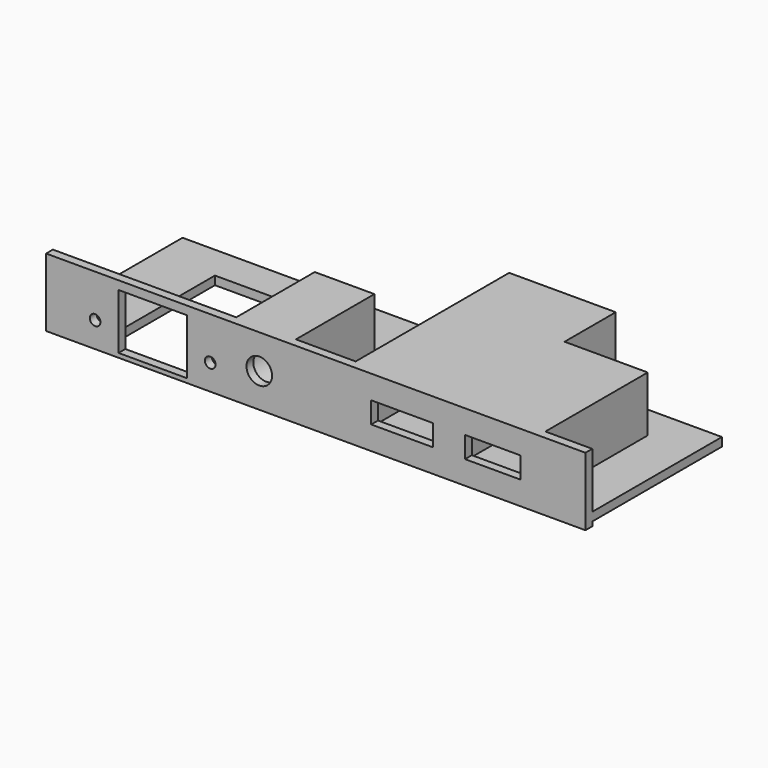
from build123d import *

# Parameters (mm, degrees)
SKETCH_W        = 126.5
SKETCH_H        = 40
PAD_DEPTH       = 3
SKETCH001_W     = 126.5
SKETCH001_H     = 38
POCKET_DEPTH    = 1
SKETCH002_W     = 126.5
SKETCH002_H     = 2
PAD001_DEPTH    = 13
SKETCH003_W     = 19.5
SKETCH003_H     = 30
SKETCH003_W_2   = 25
SKETCH003_H_2   = 45
PAD002_DEPTH    = 15
SKETCH004_W     = 13
SKETCH004_H     = 5
POCKET001_DEPTH = 32.001
SKETCH005_W     = 17.5
SKETCH005_H     = 9.5
POCKET002_DEPTH = 30
SKETCH006_W     = 14.5
SKETCH006_H     = 5
POCKET003_DEPTH = 47.001
SKETCH007_W     = 21
SKETCH007_H     = 11.5
POCKET004_DEPTH = 45
SKETCH008_W     = 14
SKETCH008_H     = 23
PAD003_DEPTH    = 13
SKETCH009_R     = 5
POCKET005_DEPTH = 23
SKETCH010_R     = 3
POCKET006_DEPTH = 2.001
SKETCH011_R     = 1.25
SKETCH011_W     = 16
SKETCH011_H     = 13
POCKET007_DEPTH = 2
SKETCH012_W     = 22
SKETCH012_H     = 30
POCKET008_DEPTH = 3.001


with BuildPart() as part:
    # Sketch → Pad (new body)
    with BuildSketch(Plane.XY):
        with Locations((0, 20)):
            Rectangle(SKETCH_W, SKETCH_H)
    extrude(amount=PAD_DEPTH)

    # Sketch001 → Pocket (cut)
    with BuildSketch(Plane(origin=(0, 0, 0), x_dir=(1, 0, 0), z_dir=(0, 0, -1))):
        with Locations((0, -21)):
            Rectangle(SKETCH001_W, SKETCH001_H)
    extrude(amount=-POCKET_DEPTH, mode=Mode.SUBTRACT)

    # Sketch002 → Pad001 (new body)
    with BuildSketch(Plane.XY.offset(3)):
        with Locations((0, 1)):
            Rectangle(SKETCH002_W, SKETCH002_H)
    extrude(amount=PAD001_DEPTH)

    # Sketch003 → Pad002 (new body)
    with BuildSketch(Plane(origin=(0, 0, 1), x_dir=(1, 0, 0), z_dir=(0, 0, -1))):
        with Locations((42.5, -17)):
            Rectangle(SKETCH003_W, SKETCH003_H)
        with Locations((20.25, -24.5)):
            Rectangle(SKETCH003_W_2, SKETCH003_H_2)
    extrude(amount=-PAD002_DEPTH)

    # Sketch004 → Pocket001 (cut, through all)
    with BuildSketch(Plane(origin=(0, 32, 0), x_dir=(-1, 0, 0), z_dir=(0, 1, 0))):
        with Locations((-41.5, 8)):
            Rectangle(SKETCH004_W, SKETCH004_H)
    extrude(amount=-POCKET001_DEPTH, mode=Mode.SUBTRACT)

    # Sketch005 → Pocket002 (cut)
    with BuildSketch(Plane(origin=(0, 32, 0), x_dir=(-1, 0, 0), z_dir=(0, 1, 0))):
        with Locations((-41.5, 8)):
            Rectangle(SKETCH005_W, SKETCH005_H)
    extrude(amount=-POCKET002_DEPTH, mode=Mode.SUBTRACT)

    # Sketch006 → Pocket003 (cut, through all)
    with BuildSketch(Plane(origin=(0, 47, 0), x_dir=(-1, 0, 0), z_dir=(0, 1, 0))):
        with Locations((-20.25, 8)):
            Rectangle(SKETCH006_W, SKETCH006_H)
    extrude(amount=-POCKET003_DEPTH, mode=Mode.SUBTRACT)

    # Sketch007 → Pocket004 (cut)
    with BuildSketch(Plane(origin=(0, 47, 0), x_dir=(-1, 0, 0), z_dir=(0, 1, 0))):
        with Locations((-20.25, 8)):
            Rectangle(SKETCH007_W, SKETCH007_H)
    extrude(amount=-POCKET004_DEPTH, mode=Mode.SUBTRACT)

    # Sketch008 → Pad003 (new body)
    with BuildSketch(Plane.XY.offset(3)):
        with Locations((-13.25, 13.5)):
            Rectangle(SKETCH008_W, SKETCH008_H)
    extrude(amount=PAD003_DEPTH)

    # Sketch009 → Pocket005 (cut)
    with BuildSketch(Plane(origin=(0, 25, 0), x_dir=(-1, 0, 0), z_dir=(0, 1, 0))):
        with Locations((13.25, 8)):
            Circle(SKETCH009_R)
    extrude(amount=-POCKET005_DEPTH, mode=Mode.SUBTRACT)

    # Sketch010 → Pocket006 (cut, through all)
    with BuildSketch(Plane(origin=(0, 2, 0), x_dir=(-1, 0, 0), z_dir=(0, 1, 0))):
        with Locations((13.25, 8)):
            Circle(SKETCH010_R)
    extrude(amount=-POCKET006_DEPTH, mode=Mode.SUBTRACT)

    # Sketch011 → Pocket007 (cut)
    with BuildSketch(Plane.XZ):
        with Locations((-24.75, 6)):
            Circle(SKETCH011_R)
        with Locations((-51.75, 6)):
            Circle(SKETCH011_R)
        with Locations((-38.25, 7.5)):
            Rectangle(SKETCH011_W, SKETCH011_H)
    extrude(amount=-POCKET007_DEPTH, mode=Mode.SUBTRACT)

    # Sketch012 → Pocket008 (cut, through all)
    with BuildSketch(Plane.XY.offset(3)):
        with Locations((-38.25, 17)):
            Rectangle(SKETCH012_W, SKETCH012_H)
    extrude(amount=-POCKET008_DEPTH, mode=Mode.SUBTRACT)


solid = part.part
